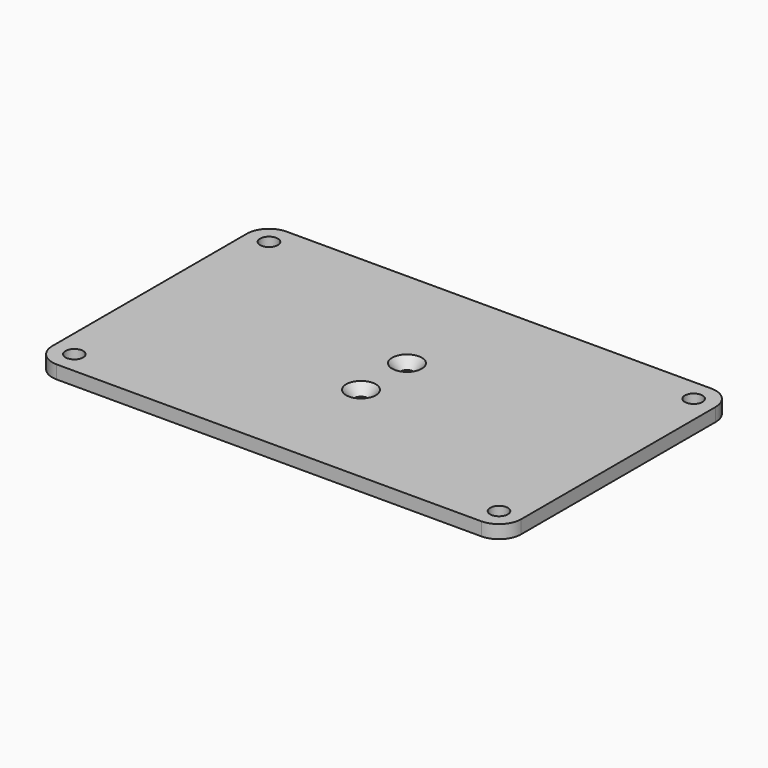
from build123d import *

# Parameters (mm, degrees)
F0_W           = 106
F0_H           = 65
F0_R           = 2
F1_DEPTH       = 3
F3_D           = 3
F3_CSINK_D     = 6.72
F3_CSINK_ANGLE = 82
F4_R           = 5


with BuildPart() as f1:
    # F0 (on Top) → F1 (new body)
    with BuildSketch(Plane.XY):
        with Locations((53, 32.5)):
            Rectangle(F0_W, F0_H)
        with Locations((5, 5)):
            Circle(F0_R, mode=Mode.SUBTRACT)
        with Locations((101, 5)):
            Circle(F0_R, mode=Mode.SUBTRACT)
        with Locations((5, 60)):
            Circle(F0_R, mode=Mode.SUBTRACT)
        with Locations((101, 60)):
            Circle(F0_R, mode=Mode.SUBTRACT)
    extrude(amount=F1_DEPTH)

    # F3 (through all)
    with Locations(Plane.XY.offset(3)):
        with Locations((53, 39), (53, 26)):
            CounterSinkHole(F3_D / 2, F3_CSINK_D / 2, counter_sink_angle=F3_CSINK_ANGLE)

    # F4
    f4_edges = [f1.edges().sort_by_distance(p)[0] for p in [
        (106, 0, 1.5),
        (0, 0, 1.5),
        (0, 65, 1.5),
        (106, 65, 1.5),
    ]]
    fillet(f4_edges, radius=F4_R)


solid = f1.part
